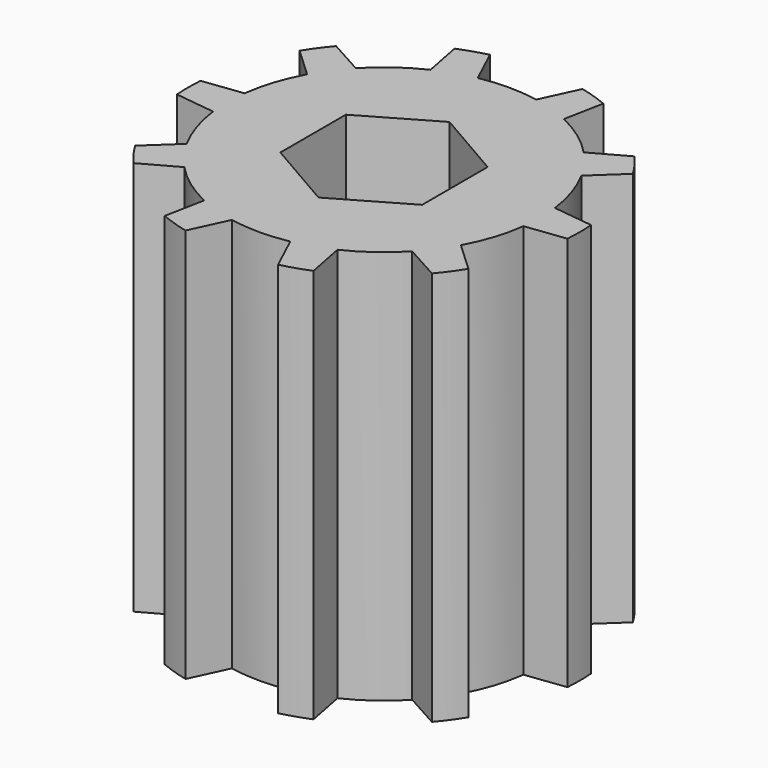
from build123d import *

# Parameters (mm, degrees)
SKETCH011_R           = 31.75
PAD009_DEPTH          = 80.15
PAD010_DEPTH          = 80.15
POLARPATTERN006_COUNT = 10
POCKET010_DEPTH       = 80.151


with BuildPart() as part:
    # Sketch011 → Pad009 (new body)
    with BuildSketch(Plane.XY):
        Circle(SKETCH011_R)
    extrude(amount=PAD009_DEPTH)

    # Sketch009 → Pad010 (join)
    with BuildSketch(Plane.XY):
        with BuildLine():
            ThreePointArc((39.636631, -3), (39.75, 0), (39.636631, 3))
            Line((31.497024, 4), (39.636631, 3))
            Line((31.497024, 4), (21.166667, 0))
            Line((21.166667, 0), (31.497024, -4))
            Line((31.497024, -4), (39.636631, -3))
        make_face()
    pad010 = extrude(amount=PAD010_DEPTH)

    # PolarPattern006: Pad010 ×10 about axis
    polarpattern006_axis = Axis((0, 0, 0), (0, 0, 1))
    for i in range(1, POLARPATTERN006_COUNT):
        add(pad010.rotate(polarpattern006_axis, i * 360 / POLARPATTERN006_COUNT))

    # Sketch010 → Pocket010 (cut, through all)
    with BuildSketch(Plane.XY):
        Polygon((14.3875, 8.306627), (0, 16.613254), (-14.3875, 8.306627), (-14.3875, -8.306627), (0, -16.613254), (14.3875, -8.306627), align=None)
    extrude(amount=POCKET010_DEPTH, mode=Mode.SUBTRACT)


with BuildPart() as part_1:
    # Body024 placement: moved
    add(part.part.moved(Location((0, -100, 0))))


solid = part_1.part
